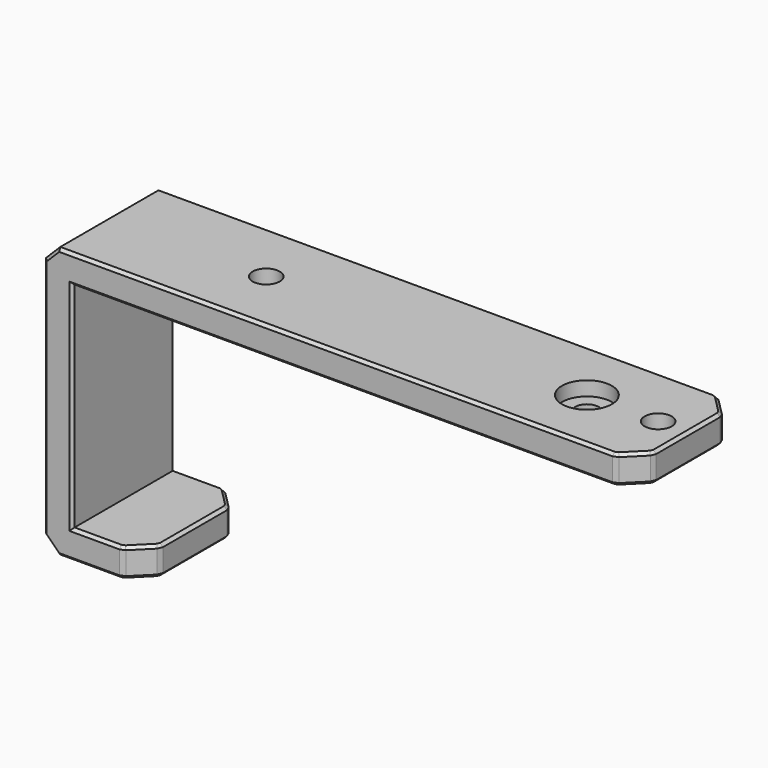
from build123d import *

# Parameters (mm, degrees)
PAD003_DEPTH       = 18
SKETCH010_R        = 1.9
SKETCH010_R_2      = 1.65
POCKET007_DEPTH    = 5
SKETCH011_R        = 3.5
POCKET008_DEPTH    = 2
CHAMFER012008_SIZE = 3
CHAMFER012009_SIZE = 2
CHAMFER012010_SIZE = 0.4
CHAMFER012011_SIZE = 0.4


with BuildPart() as part:
    # Sketch009 → Pad003 (new body)
    with BuildSketch(Plane.XZ):
        Polygon((0, 0), (79.2, 0), (79.2, 4), (-4, 4), (-4, -34), (10, -34), (10, -30), (0, -30), align=None)
    extrude(amount=PAD003_DEPTH)

    # Sketch010 (on Face3 of Pad003) → Pocket007 (cut)
    with BuildSketch(Plane(origin=(0, 0, 4), x_dir=(-1, 0, 0), z_dir=(0, 0, 1))):
        with Locations((-75, 9)):
            Circle(SKETCH010_R)
        with Locations((-65, 9)):
            Circle(SKETCH010_R_2)
        with Locations((-20, 9)):
            Circle(SKETCH010_R)
    extrude(amount=-POCKET007_DEPTH, mode=Mode.SUBTRACT)

    # Sketch011 (on Face10 of Pocket007) → Pocket008 (cut)
    with BuildSketch(Plane(origin=(0, 0, 4), x_dir=(-1, 0, 0), z_dir=(0, 0, 1))):
        with Locations((-65, 9)):
            Circle(SKETCH011_R)
    extrude(amount=-POCKET008_DEPTH, mode=Mode.SUBTRACT)

    # Chamfer012008
    chamfer012008_edges = [part.edges().sort_by_distance(p)[0] for p in [
        (10, -18, -32),
        (10, 0, -32),
        (79.2, -18, 2),
        (79.2, 0, 2),
    ]]
    chamfer(chamfer012008_edges, length=CHAMFER012008_SIZE)

    # Chamfer012009
    chamfer012009_edges = [part.edges().sort_by_distance(p)[0] for p in [
        (-4, -9, -34),
        (-4, -9, 4),
    ]]
    chamfer(chamfer012009_edges, length=CHAMFER012009_SIZE)

    # Chamfer012010
    chamfer012010_edges = [part.edges().sort_by_distance(p)[0] for p in [
        (8.5, -16.5, -34),
        (7, -18, -32),
        (10, -15, -32),
        (8.5, -16.5, -30),
        (10, -9, -34),
        (10, -3, -32),
        (10, -9, -30),
        (37.1, -18, 4),
        (-3, -18, 3),
        (76.2, -18, 2),
        (-4, -18, -15),
        (38.1, -18, 0),
        (-3, -18, -33),
        (0, -18, -15),
        (2.5, -18, -34),
        (3.5, -18, -30),
        (77.7, -16.5, 0),
        (79.2, -15, 2),
        (77.7, -16.5, 4),
        (79.2, -9, 0),
        (79.2, -3, 2),
        (79.2, -9, 4),
        (77.7, -1.5, 0),
        (76.2, 0, 2),
        (77.7, -1.5, 4),
        (37.1, 0, 4),
        (-3, 0, 3),
        (-4, 0, -15),
        (38.1, 0, 0),
        (-3, 0, -33),
        (0, 0, -15),
        (2.5, 0, -34),
        (3.5, 0, -30),
        (7, 0, -32),
        (8.5, -1.5, -34),
        (8.5, -1.5, -30),
    ]]
    chamfer(chamfer012010_edges, length=CHAMFER012010_SIZE)

    # Chamfer012011
    chamfer012011_edges = [part.edges().sort_by_distance(p)[0] for p in [
        (21.9, -9, 0),
        (76.9, -9, 0),
    ]]
    chamfer(chamfer012011_edges, length=CHAMFER012011_SIZE)


solid = part.part
